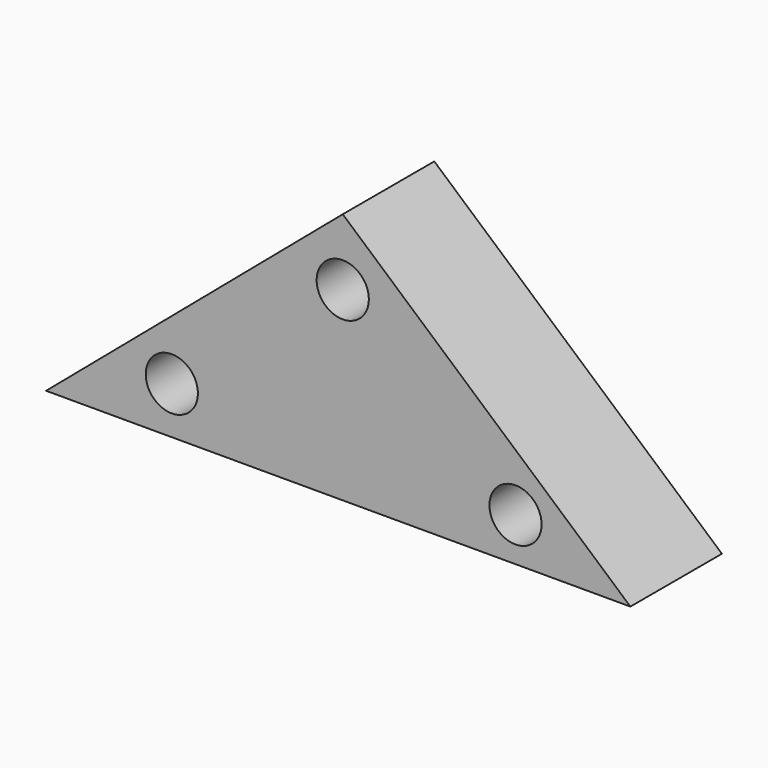
from build123d import *

# Parameters (mm, degrees)
F0_R     = 5.79132
F1_DEPTH = 25.4


with BuildPart() as f1:
    # F0 (on Front) → F1 (new body)
    with BuildSketch(Plane.XZ):
        Polygon((63.847378, -55.916652), (0, 0), (-65.85516, -55.916652), align=None)
        with Locations((-37.947025, -45.476198)):
            Circle(F0_R, mode=Mode.SUBTRACT)
        with Locations((38.348582, -46.279311)):
            Circle(F0_R, mode=Mode.SUBTRACT)
        with Locations((0, -14.757177)):
            Circle(F0_R, mode=Mode.SUBTRACT)
    extrude(amount=F1_DEPTH)


solid = f1.part
